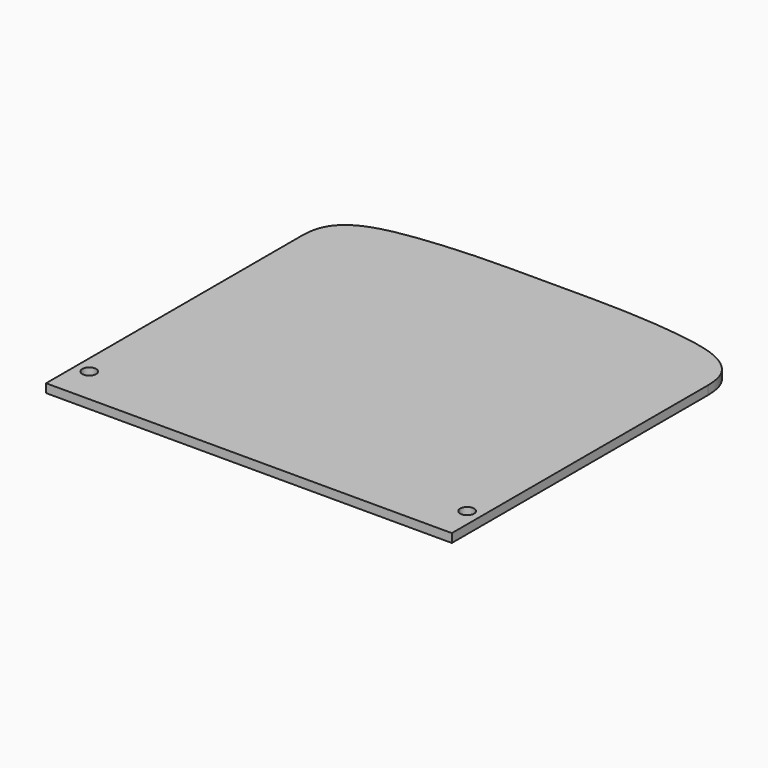
from build123d import *

# Parameters (mm, degrees)
F0_R     = 4
F1_DEPTH = 5


with BuildPart() as f1:
    # F0 (on Top) → F1 (new body)
    with BuildSketch(Plane.XY):
        with BuildLine():
            Line((-119.5811182261, 76.6951441765), (-119.5811182261, -107.383467257))
            Line((-119.5811182261, -107.383467257), (-3.0305497332, -107.383467257))
            Line((-3.0305497332, -107.383467257), (113.5200187597, -107.383467257))
            Line((113.5200187597, -107.383467257), (113.5200187597, 76.6951441765))
            add(Edge.make_bspline(
                [(113.5200187597, 76.6951441765), (113.4378174049, 85.1617030574), (108.8348990581, 95.1764506616), (89.3614569727, 106.1699339731), (34.7992859402, 110.3052650533), (15.4223444663, 109.6965472095), (-3.0305497332, 109.7837686539)],
                knots=[0, 0, 0, 0, 0.1908171096, 0.3927598637, 0.7117679874, 1, 1, 1, 1], degree=3))
            add(Edge.make_bspline(
                [(-119.5811182261, 76.6951441765), (-119.4989168713, 85.1617030574), (-114.8959985244, 95.1764506616), (-95.4225564391, 106.1699339731), (-40.8603854065, 110.3052650533), (-21.4834439326, 109.6965472095), (-3.0305497332, 109.7837686539)],
                knots=[0, 0, 0, 0, 0.1908171096, 0.3927598637, 0.7117679874, 1, 1, 1, 1], degree=3))
        make_face()
        with Locations((-111.5811182261, -86.383467257)):
            Circle(F0_R, mode=Mode.SUBTRACT)
        with Locations((105.5200187597, -86.383467257)):
            Circle(F0_R, mode=Mode.SUBTRACT)
    extrude(amount=F1_DEPTH)


solid = f1.part
